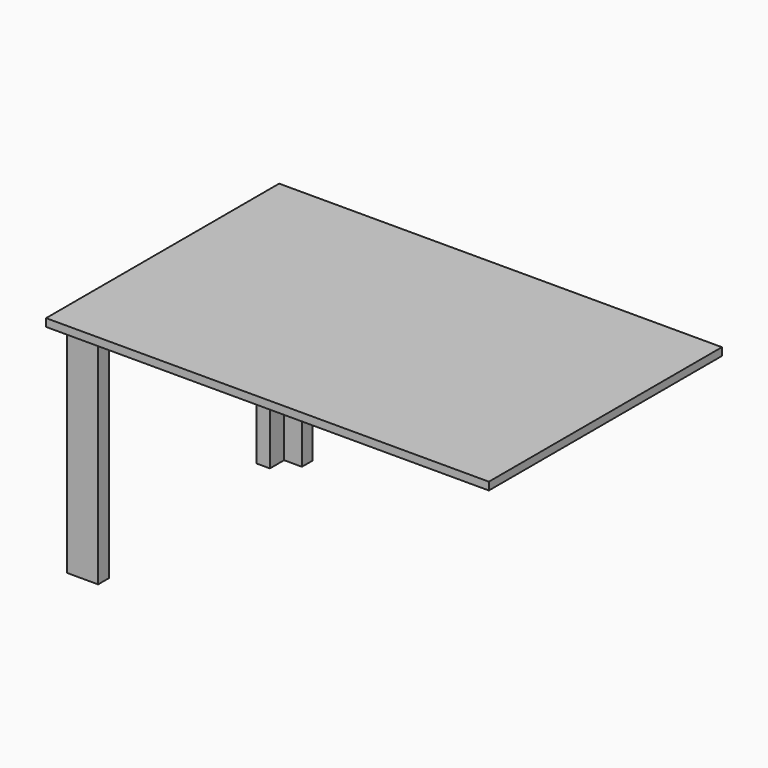
from build123d import *

# Parameters (mm, degrees)
F1_DEPTH = 736.6
F0_W     = 1447.8
F0_H     = 952.5
F3_DEPTH = 25.4


with BuildPart() as f1:
    # F0 (on Top) → F1 (new body)
    with BuildSketch(Plane.XY):
        Polygon((-1308.1, 438.15), (-1409.7, 438.15), (-1409.7, 336.55), (-1366.275751, 336.55), (-1366.275751, 394.725751), (-1308.1, 394.725751), align=None)
    extrude(amount=-F1_DEPTH)



with BuildPart() as f2_1:
    # F2: instance of F1
    add(f1.part.mirror(Plane.XZ))


with BuildPart() as f1_1:
    add(f1.part)

    add(f2_1.part)  # F3 merges F2_1
    # F0 (on Top) → F3 (join)
    with BuildSketch(Plane.XY):
        with Locations((-723.9, 0)):
            Rectangle(F0_W, F0_H)
        Polygon((-1409.7, 336.55), (-1409.7, 438.15), (-1308.1, 438.15), (-1308.1, 394.725751), (-1366.275751, 394.725751), (-1366.275751, 336.55), align=None, mode=Mode.SUBTRACT)
    extrude(amount=-F3_DEPTH)


solid = f1_1.part
